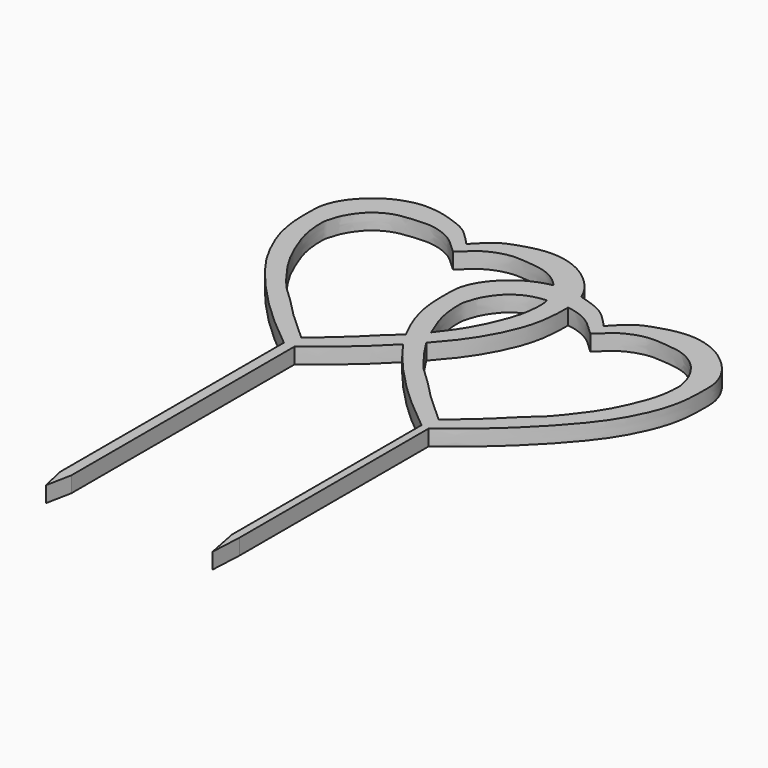
from build123d import *

# Parameters (mm, degrees)
F1_DEPTH = 5


with BuildPart() as f1:
    # F0 (on Top) → F1 (new body)
    with BuildSketch(Plane.XY):
        Polygon((5.4722838547, -71.7465581899), (2.1309804769, -71.7465581899), (2.1309804769, -133.8681280613), (3.8802810013, -141.4668262005), (5.4722838547, -133.4536671638), align=None)
        Polygon((58.8037203075, -133.4536671638), (58.8037203075, -71.7465581899), (56.3037203075, -71.7465581899), (56.3037203075, -133.4536671638), (58.3029873669, -143.604055047), align=None)
        with BuildLine():
            Line((58.8037203075, -71.7465581899), (58.8037203075, -58.730931346))
            add(Edge.make_bspline(
                [(57.7588856984, -59.5430574281), (58.1064293653, -59.2730531087), (58.4539730323, -59.0030487893), (58.8037203075, -58.730931346)],
                knots=[0, 0, 0, 0, 0.0106533547, 0.0106533547, 0.0106533547, 0.0106533547], degree=3))
            add(Edge.make_bspline(
                [(57.7588856984, -59.5430574281), (57.2758465758, -59.1554092192), (56.7928074532, -58.7677610103), (56.3037203075, -58.3741270511)],
                knots=[0, 0, 0, 0, 0.0149924327, 0.0149924327, 0.0149924327, 0.0149924327], degree=3))
            Line((56.3037203075, -58.3741270511), (56.3037203075, -71.7465581899))
            Line((56.3037203075, -71.7465581899), (58.8037203075, -71.7465581899))
        make_face()
        with BuildLine():
            add(Edge.make_bspline(
                [(3.7912081461, -46.4737676084), (3.2407818512, -46.0320398945), (2.6903555563, -45.5903121806), (2.1309804769, -45.1397278225)],
                knots=[0, 0, 0, 0, 0.0170839769, 0.0170839769, 0.0170839769, 0.0170839769], degree=3))
            Line((2.1309804769, -45.1397278225), (2.1309804769, -71.7465581899))
            Line((2.1309804769, -71.7465581899), (5.4722838547, -71.7465581899))
            Line((5.4722838547, -71.7465581899), (5.4722838547, -45.1660969594))
            add(Edge.make_bspline(
                [(3.7912081461, -46.4737676084), (4.3485375649, -46.0407821602), (4.9058669837, -45.6077967121), (5.4722838547, -45.1660969594)],
                knots=[0, 0, 0, 0, 0.0170839769, 0.0170839769, 0.0170839769, 0.0170839769], degree=3))
        make_face()
        with BuildLine():
            add(Edge.make_bspline(
                [(44.2296044758, 20.0039827247), (45.5051535197, 19.6745725826), (48.5061823296, 18.6860255935), (52.8926205844, 17.0117827629), (56.7343780798, 12.9789301434), (57.8712942589, 11.7370396886), (58.3175719082, 11.249556123)],
                knots=[0.835054559, 0.835054559, 0.835054559, 0.835054559, 0.8694565801, 0.9187122678, 0.9680918447, 1, 1, 1, 1], degree=3))
            add(Edge.make_bspline(
                [(45.2552187391, 13.459405063), (45.2673218368, 14.6782574348), (45.2547817637, 16.7743630859), (44.6293153805, 18.9914669168), (44.2296044745, 20.0039827228)],
                knots=[0.4858723592, 0.4858723592, 0.4858723592, 0.4858723592, 0.5229615868, 0.5547066737, 0.5547066737, 0.5547066737, 0.5547066737], degree=3))
            add(Edge.make_bspline(
                [(45.2552187391, 13.459405063), (45.620098505, 13.4249051224), (47.8662521396, 13.1290317491), (52.2892081757, 11.5205095433), (55.2512222937, 8.8336070843), (56.6305591779, 7.521276306), (57.7113185317, 6.5143165351), (58.2760495524, 5.9881481358)],
                knots=[0.8327016325, 0.8327016325, 0.8327016325, 0.8327016325, 0.8433452284, 0.8967229546, 0.9389928273, 0.9681218184, 1, 1, 1, 1], degree=3))
            add(Edge.make_bspline(
                [(57.8070973225, -53.4340344875), (58.8451578136, -52.464735458), (61.1623345824, -50.3010492254), (66.2843821397, -46.3290287789), (73.3194602398, -38.840822382), (77.4958223004, -35.7008938885), (81.5929997715, -30.4687274942), (86.6774653327, -23.8772830801), (90.6331651451, -15.2903911208), (92.8630169678, -8.8020450937), (93.322233698, -2.0187144773), (92.7582682041, -0.2190872319), (91.9456530656, 2.8794129951), (90.3232788716, 5.7202880791), (87.9211773972, 8.9838798508), (83.4442969102, 11.9378160574), (79.1664297235, 12.8214240598), (74.7802152738, 13.2373078778), (70.2639793047, 13.4711954881), (64.3494611676, 11.4253315764), (61.345409248, 8.7855125439), (59.9455319661, 7.4951149667), (58.8490146223, 6.5053379837), (58.2760495524, 5.9881481358)],
                knots=[0, 0, 0, 0, 0.04485827, 0.1001334143, 0.1685556142, 0.2177906886, 0.2716140402, 0.334050428, 0.3995475458, 0.4572153958, 0.5111151521, 0.5404939261, 0.5776427802, 0.616560433, 0.6595104131, 0.7085494581, 0.7533005133, 0.7976505181, 0.8433452284, 0.8967229546, 0.9389928273, 0.9681218184, 1, 1, 1, 1], degree=3))
            add(Edge.make_bspline(
                [(57.8070973225, -53.4340344875), (56.7844643415, -52.4484727299), (54.5017251304, -50.2484845515), (49.4430049979, -46.1961187945), (42.5269877203, -38.5978121455), (38.4007025866, -35.3923602271), (34.3866134682, -30.0961807592), (31.1800621564, -25.8007304749), (29.6611214635, -23.1717035057), (29.6425165985, -23.1394005666)],
                knots=[0, 0, 0, 0, 0.04485827, 0.1001334143, 0.1685556142, 0.2177906886, 0.2716140402, 0.334050428, 0.3348260239, 0.3348260239, 0.3348260239, 0.3348260239], degree=3))
            add(Edge.make_bspline(
                [(25.6916337465, -27.3875553909), (27.0633223993, -25.9666412968), (28.3929430611, -24.5360156378), (29.6425165985, -23.1394005666)],
                knots=[0.1738108998, 0.1738108998, 0.1738108998, 0.1738108998, 0.203327897, 0.203327897, 0.203327897, 0.203327897], degree=3))
            add(Edge.make_bspline(
                [(56.3037203075, -58.3741270511), (54.836621305, -57.1933559067), (50.5843447149, -53.7428621448), (40.4875181362, -45.0357694348), (30.7164141669, -34.2514491013), (26.7803458552, -29.000856134), (25.6916337465, -27.3875553909)],
                knots=[0.0149924327, 0.0149924327, 0.0149924327, 0.0149924327, 0.0599647517, 0.1406791438, 0.2281911542, 0.2665937884, 0.2665937884, 0.2665937884, 0.2665937884], degree=3))
            add(Edge.make_bspline(
                [(57.7588856984, -59.5430574281), (57.2758465758, -59.1554092192), (56.7928074532, -58.7677610103), (56.3037203075, -58.3741270511)],
                knots=[0, 0, 0, 0, 0.0149924327, 0.0149924327, 0.0149924327, 0.0149924327], degree=3))
            add(Edge.make_bspline(
                [(57.7588856984, -59.5430574281), (58.1064293653, -59.2730531087), (58.4539730323, -59.0030487893), (58.8037203075, -58.730931346)],
                knots=[0, 0, 0, 0, 0.0106533547, 0.0106533547, 0.0106533547, 0.0106533547], degree=3))
            add(Edge.make_bspline(
                [(58.8037203075, -58.730931346), (60.4226025517, -57.4713758651), (64.8158115439, -54.0307624317), (75.2570670617, -45.3101662473), (86.7382230504, -33.0335736275), (93.0811210502, -24.2256277539), (97.7814297902, -14.0612551174), (99.1827990047, -6.103301673), (99.2026277083, -0.2863876833), (99.2848276869, 3.9220603727), (97.7884580281, 8.4177062722), (94.7163162194, 12.9275309763), (89.7160393756, 17.2463342248), (85.0545714877, 19.3933161718), (80.3604646993, 20.6448467553), (74.3769007108, 20.4197025563), (68.8036458987, 18.7333946469), (63.8327913648, 16.9254443408), (59.9278628363, 12.953727572), (58.7714878073, 11.7299354768), (58.3175719082, 11.249556123)],
                knots=[0.0106533547, 0.0106533547, 0.0106533547, 0.0106533547, 0.0599647517, 0.1406791438, 0.2281911542, 0.2986285287, 0.3688855659, 0.4293299476, 0.4798892229, 0.5229615868, 0.5682287059, 0.6179848179, 0.6723907892, 0.7202640622, 0.7665882394, 0.8182138704, 0.8694565801, 0.9187122678, 0.9680918447, 1, 1, 1, 1], degree=3))
        make_face()
        with BuildLine():
            add(Edge.make_bspline(
                [(3.8394197702, -40.3647446679), (4.8774802614, -39.3954456384), (7.1946570302, -37.2317594058), (12.3167045875, -33.2597389593), (19.0881738711, -26.0521203821), (21.8958341797, -23.8633676791), (22.9483827949, -22.8678137803)],
                knots=[0, 0, 0, 0, 0.04485827, 0.1001334143, 0.1685556142, 0.2113108017, 0.2113108017, 0.2113108017, 0.2113108017], degree=3))
            Line((3.8394197702, -40.3647446679), (3.8016321658, -45.152912391))
            Line((3.8016321658, -45.152912391), (5.4722838547, -45.1660969594))
            add(Edge.make_bspline(
                [(5.4722838547, -45.1660969594), (6.8939899628, -44.0574307659), (11.1567873371, -40.7036835769), (18.6792770009, -34.4208572876), (24.1519631157, -28.9824797895), (25.6916337465, -27.3875553909)],
                knots=[0.0170839769, 0.0170839769, 0.0170839769, 0.0170839769, 0.0599647517, 0.1406791438, 0.1738108998, 0.1738108998, 0.1738108998, 0.1738108998], degree=3))
            add(Edge.make_bspline(
                [(25.6916337465, -27.3875553909), (24.7834510024, -26.0417708773), (23.880532614, -24.5694768407), (23.0174007461, -22.9948576263), (22.9483827949, -22.8678137803)],
                knots=[0.2665937884, 0.2665937884, 0.2665937884, 0.2665937884, 0.2986285287, 0.3014251536, 0.3014251536, 0.3014251536, 0.3014251536], degree=3))
        make_face()
        with BuildLine():
            Line((4.3083720002, 19.0574379554), (4.349894356, 24.3188459426))
            add(Edge.make_bspline(
                [(2.1309804769, -45.1397278225), (0.7269492626, -44.0087612731), (-3.4823857696, -40.5881531037), (-13.480159416, -31.9664796152), (-24.766126848, -19.5102117827), (-30.9692211088, -10.6032545502), (-35.5085225451, -0.3659640974), (-36.7841187417, 7.613115614), (-36.7121380179, 13.4296180267), (-36.7279068322, 17.6388392398), (-35.160769854, 22.1103083386), (-32.0178332164, 26.5710844421), (-26.9500165493, 30.8104315903), (-22.2552439721, 32.8835752898), (-17.5419692537, 34.0608640271), (-11.5627039479, 33.7413107165), (-6.0167579086, 31.9672515028), (-1.0750569678, 30.0810725825), (2.7667005276, 26.048219963), (3.9036167067, 24.8063295083), (4.349894356, 24.3188459426)],
                knots=[0.0170839769, 0.0170839769, 0.0170839769, 0.0170839769, 0.0599647517, 0.1406791438, 0.2281911542, 0.2986285287, 0.3688855659, 0.4293299476, 0.4798892229, 0.5229615868, 0.5682287059, 0.6179848179, 0.6723907892, 0.7202640622, 0.7665882394, 0.8182138704, 0.8694565801, 0.9187122678, 0.9680918447, 1, 1, 1, 1], degree=3))
            Line((2.1309804769, -45.1397278225), (3.8016321658, -45.152912391))
            Line((3.8016321658, -45.152912391), (3.8394197702, -40.3647446679))
            add(Edge.make_bspline(
                [(3.8394197702, -40.3647446679), (2.8167867892, -39.3791829103), (0.5340475781, -37.1791947318), (-4.5246725543, -33.1268289749), (-11.440689832, -25.5285223258), (-15.5669749656, -22.3230704075), (-19.581064084, -17.0268909395), (-24.5608651615, -10.3560206263), (-28.3805474144, -1.7077663508), (-30.5077174883, 4.8149647333), (-30.8598173411, 11.6046981559), (-30.2675190073, 13.3952003158), (-29.4061021989, 16.4804892977), (-27.7390932309, 19.2954049924), (-25.2857824656, 22.5206784747), (-20.7628383324, 25.4035892217), (-16.4715582046, 26.2195706147), (-12.0793262876, 26.5661760619), (-7.5599614486, 26.7287558716), (-1.6784693765, 24.589799363), (1.2835447415, 21.9028969039), (2.6628816256, 20.5905661257), (3.7436409795, 19.5836063547), (4.3083720002, 19.0574379554)],
                knots=[0, 0, 0, 0, 0.04485827, 0.1001334143, 0.1685556142, 0.2177906886, 0.2716140402, 0.334050428, 0.3995475458, 0.4572153958, 0.5111151521, 0.5404939261, 0.5776427802, 0.616560433, 0.6595104131, 0.7085494581, 0.7533005133, 0.7976505181, 0.8433452284, 0.8967229546, 0.9389928273, 0.9681218184, 1, 1, 1, 1], degree=3))
        make_face()
        with BuildLine():
            Line((3.8016321658, -45.152912391), (2.1309804769, -45.1397278225))
            add(Edge.make_bspline(
                [(3.7912081461, -46.4737676084), (3.2407818512, -46.0320398945), (2.6903555563, -45.5903121806), (2.1309804769, -45.1397278225)],
                knots=[0, 0, 0, 0, 0.0170839769, 0.0170839769, 0.0170839769, 0.0170839769], degree=3))
            Line((3.7912081461, -46.4737676084), (3.8016321658, -45.152912391))
        make_face()
        with BuildLine():
            Line((3.8016321658, -45.152912391), (3.7912081461, -46.4737676084))
            add(Edge.make_bspline(
                [(3.7912081461, -46.4737676084), (4.3485375649, -46.0407821602), (4.9058669837, -45.6077967121), (5.4722838547, -45.1660969594)],
                knots=[0, 0, 0, 0, 0.0170839769, 0.0170839769, 0.0170839769, 0.0170839769], degree=3))
            Line((5.4722838547, -45.1660969594), (3.8016321658, -45.152912391))
        make_face()
        with BuildLine():
            add(Edge.make_bspline(
                [(22.9483827949, -22.8678137803), (23.1079048633, -22.716929712), (24.4624482836, -21.4005772986), (25.8289063278, -19.6903083212), (27.0955348726, -18.0656470238)],
                knots=[0.2113108017, 0.2113108017, 0.2113108017, 0.2113108017, 0.2177906886, 0.2665494405, 0.2665494405, 0.2665494405, 0.2665494405], degree=3))
            add(Edge.make_bspline(
                [(25.6916337465, -27.3875553909), (24.7834510024, -26.0417708773), (23.880532614, -24.5694768407), (23.0174007461, -22.9948576263), (22.9483827949, -22.8678137803)],
                knots=[0.2665937884, 0.2665937884, 0.2665937884, 0.2665937884, 0.2986285287, 0.3014251536, 0.3014251536, 0.3014251536, 0.3014251536], degree=3))
            add(Edge.make_bspline(
                [(25.6916337465, -27.3875553909), (27.0633223993, -25.9666412968), (28.3929430611, -24.5360156378), (29.6425165985, -23.1394005666)],
                knots=[0.1738108998, 0.1738108998, 0.1738108998, 0.1738108998, 0.203327897, 0.203327897, 0.203327897, 0.203327897], degree=3))
            add(Edge.make_bspline(
                [(29.6425165985, -23.1394005666), (28.7073240523, -21.5156603369), (27.8534269314, -19.7771956323), (27.0955348726, -18.0656470238)],
                knots=[0.3348260239, 0.3348260239, 0.3348260239, 0.3348260239, 0.3738121471, 0.3738121471, 0.3738121471, 0.3738121471], degree=3))
        make_face()
        with BuildLine():
            add(Edge.make_bspline(
                [(29.6425165985, -23.1394005666), (30.695078554, -21.9629800948), (34.5118402761, -17.5462676023), (39.113443498, -11.1563379342), (43.8137522379, -0.9919652977), (45.2151214525, 6.9659881466), (45.2301769844, 11.3826527926), (45.2532662993, 13.2627830153), (45.2552187391, 13.459405063)],
                knots=[0.203327897, 0.203327897, 0.203327897, 0.203327897, 0.2281911542, 0.2986285287, 0.3688855659, 0.4293299476, 0.4798892229, 0.4858723592, 0.4858723592, 0.4858723592, 0.4858723592], degree=3))
            add(Edge.make_bspline(
                [(38.7053275032, 13.2157966278), (39.7417081915, 13.3252841472), (41.9246505781, 13.4853028178), (44.0536095725, 13.5730190496), (45.2552187391, 13.459405063)],
                knots=[0.7654099046, 0.7654099046, 0.7654099046, 0.7654099046, 0.7976505181, 0.8327016325, 0.8327016325, 0.8327016325, 0.8327016325], degree=3))
            add(Edge.make_bspline(
                [(27.0955348726, -18.0656470238), (27.2271003107, -17.8968925171), (28.9892993407, -15.6311929556), (32.7097877805, -10.8079932605), (36.6654875929, -2.2211013012), (38.8953394156, 4.267244726), (39.3545561457, 11.0505753424), (38.9438890093, 12.3610238993), (38.7337380063, 13.1138973586), (38.7053275032, 13.2157966267)],
                knots=[0.2665494405, 0.2665494405, 0.2665494405, 0.2665494405, 0.2716140402, 0.334050428, 0.3995475458, 0.4572153958, 0.5111151521, 0.5404939261, 0.5449079402, 0.5449079402, 0.5449079402, 0.5449079402], degree=3))
            add(Edge.make_bspline(
                [(29.6425165985, -23.1394005666), (28.7073240523, -21.5156603369), (27.8534269314, -19.7771956323), (27.0955348726, -18.0656470238)],
                knots=[0.3348260239, 0.3348260239, 0.3348260239, 0.3348260239, 0.3738121471, 0.3738121471, 0.3738121471, 0.3738121471], degree=3))
        make_face()
        with BuildLine():
            add(Edge.make_bspline(
                [(38.7053275032, 13.2157966267), (38.4946319218, 13.9714934002), (37.9178058444, 16.0540635348), (36.6021811152, 18.3578018013), (35.4983497801, 19.9328942374), (34.9971058901, 20.5372978079)],
                knots=[0.5449079402, 0.5449079402, 0.5449079402, 0.5449079402, 0.5776427802, 0.616560433, 0.6414214536, 0.6414214536, 0.6414214536, 0.6414214536], degree=3))
            add(Edge.make_bspline(
                [(22.9483827949, -22.8678137803), (21.2835262259, -19.8032519124), (18.4394741592, -13.3121467336), (17.1835588105, -5.4561742057), (17.2555395343, 0.360328207), (17.23977072, 4.5695494202), (18.8069076982, 9.0410185189), (21.9498443358, 13.5017946224), (27.0176610029, 17.7411417707), (31.2831331926, 19.6247126252), (33.8800812635, 20.3438453856), (34.9971058876, 20.537297793)],
                knots=[0.3014251536, 0.3014251536, 0.3014251536, 0.3014251536, 0.3688855659, 0.4293299476, 0.4798892229, 0.5229615868, 0.5682287059, 0.6179848179, 0.6723907892, 0.7202640622, 0.7529996138, 0.7529996138, 0.7529996138, 0.7529996138], degree=3))
            add(Edge.make_bspline(
                [(22.9483827949, -22.8678137803), (23.1079048633, -22.716929712), (24.4624482836, -21.4005772986), (25.8289063278, -19.6903083212), (27.0955348726, -18.0656470238)],
                knots=[0.2113108017, 0.2113108017, 0.2113108017, 0.2113108017, 0.2177906886, 0.2665494405, 0.2665494405, 0.2665494405, 0.2665494405], degree=3))
            add(Edge.make_bspline(
                [(27.0955348726, -18.0656470238), (26.5952375177, -16.9358248657), (25.1094520486, -13.3123092943), (23.4599600639, -8.2543250864), (23.1078602111, -1.4645916637), (23.7001585449, 0.3259104961), (24.5615753533, 3.411199478), (26.2285843214, 6.2261151728), (28.6818950866, 9.451388655), (33.2048392198, 12.3342994021), (36.4945745461, 12.9598383401), (38.3160688043, 13.1746737375), (38.7053275032, 13.2157966278)],
                knots=[0.3738121471, 0.3738121471, 0.3738121471, 0.3738121471, 0.3995475458, 0.4572153958, 0.5111151521, 0.5404939261, 0.5776427802, 0.616560433, 0.6595104131, 0.7085494581, 0.7533005133, 0.7654099046, 0.7654099046, 0.7654099046, 0.7654099046], degree=3))
        make_face()
        with BuildLine():
            add(Edge.make_bspline(
                [(44.2296044745, 20.0039827228), (44.0593449404, 20.4352706034), (43.1681275325, 22.4450737296), (40.7486386671, 25.9968207959), (35.7483618234, 30.3156240444), (31.0868939355, 32.4626059915), (26.3927871471, 33.7141365749), (20.4092231586, 33.4889923759), (14.8359683465, 31.8026844666), (9.8651138126, 29.9947341605), (5.9601852841, 26.0230173917), (4.8038102551, 24.7992252965), (4.349894356, 24.3188459426)],
                knots=[0.5547066737, 0.5547066737, 0.5547066737, 0.5547066737, 0.5682287059, 0.6179848179, 0.6723907892, 0.7202640622, 0.7665882394, 0.8182138704, 0.8694565801, 0.9187122678, 0.9680918447, 1, 1, 1, 1], degree=3))
            Line((4.349894356, 24.3188459426), (4.3083720002, 19.0574379554))
            add(Edge.make_bspline(
                [(34.9971058901, 20.5372978079), (34.6323992041, 20.9770638132), (33.1395481668, 22.5902314347), (29.476619358, 25.007105877), (25.1987521712, 25.8907138795), (20.8125377216, 26.3065976974), (16.2963017525, 26.5404853078), (10.3817836154, 24.494621396), (7.3777316958, 21.8548023636), (5.9778544139, 20.5644047864), (4.8813370701, 19.5746278034), (4.3083720002, 19.0574379554)],
                knots=[0.6414214536, 0.6414214536, 0.6414214536, 0.6414214536, 0.6595104131, 0.7085494581, 0.7533005133, 0.7976505181, 0.8433452284, 0.8967229546, 0.9389928273, 0.9681218184, 1, 1, 1, 1], degree=3))
            add(Edge.make_bspline(
                [(34.9971058876, 20.537297793), (35.4607861548, 20.6176004668), (37.7376678445, 20.9214583998), (41.0262261034, 20.7457060916), (43.6051898763, 20.1652375999), (44.2296044758, 20.0039827247)],
                knots=[0.7529996138, 0.7529996138, 0.7529996138, 0.7529996138, 0.7665882394, 0.8182138704, 0.835054559, 0.835054559, 0.835054559, 0.835054559], degree=3))
        make_face()
        with BuildLine():
            add(Edge.make_bspline(
                [(45.2552187391, 13.459405063), (45.2673218368, 14.6782574348), (45.2547817637, 16.7743630859), (44.6293153805, 18.9914669168), (44.2296044745, 20.0039827228)],
                knots=[0.4858723592, 0.4858723592, 0.4858723592, 0.4858723592, 0.5229615868, 0.5547066737, 0.5547066737, 0.5547066737, 0.5547066737], degree=3))
            add(Edge.make_bspline(
                [(34.9971058876, 20.537297793), (35.4607861548, 20.6176004668), (37.7376678445, 20.9214583998), (41.0262261034, 20.7457060916), (43.6051898763, 20.1652375999), (44.2296044758, 20.0039827247)],
                knots=[0.7529996138, 0.7529996138, 0.7529996138, 0.7529996138, 0.7665882394, 0.8182138704, 0.835054559, 0.835054559, 0.835054559, 0.835054559], degree=3))
            add(Edge.make_bspline(
                [(38.7053275032, 13.2157966267), (38.4946319218, 13.9714934002), (37.9178058444, 16.0540635348), (36.6021811152, 18.3578018013), (35.4983497801, 19.9328942374), (34.9971058901, 20.5372978079)],
                knots=[0.5449079402, 0.5449079402, 0.5449079402, 0.5449079402, 0.5776427802, 0.616560433, 0.6414214536, 0.6414214536, 0.6414214536, 0.6414214536], degree=3))
            add(Edge.make_bspline(
                [(38.7053275032, 13.2157966278), (39.7417081915, 13.3252841472), (41.9246505781, 13.4853028178), (44.0536095725, 13.5730190496), (45.2552187391, 13.459405063)],
                knots=[0.7654099046, 0.7654099046, 0.7654099046, 0.7654099046, 0.7976505181, 0.8327016325, 0.8327016325, 0.8327016325, 0.8327016325], degree=3))
        make_face()
    extrude(amount=F1_DEPTH)


solid = f1.part
